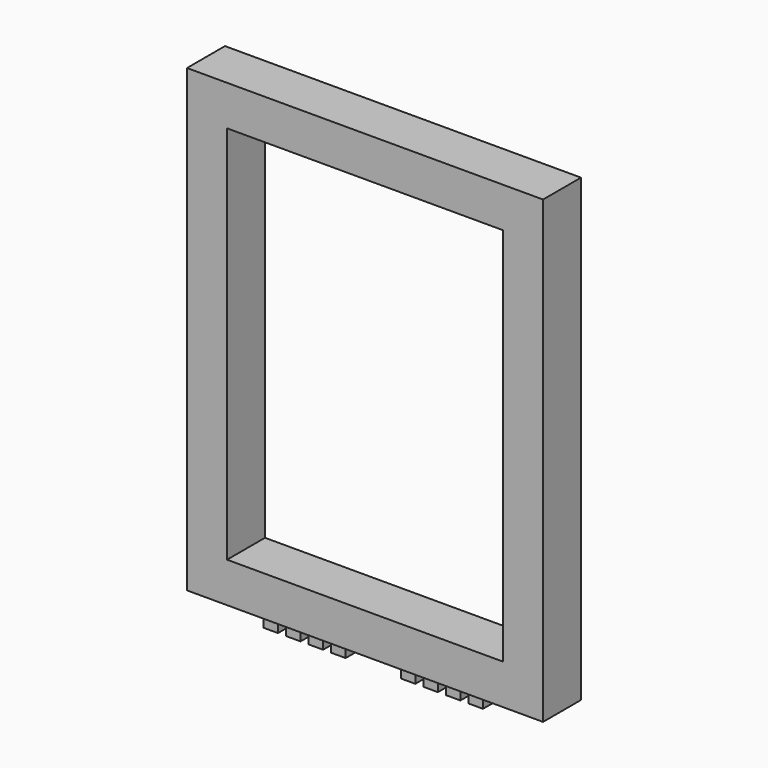
from build123d import *

# Parameters (mm, degrees)
F0_W     = 1200
F0_H     = 1550
F0_W_2   = 930
F0_H_2   = 1280
F1_DEPTH = 80
F2_W     = 49
F2_H     = 91
F3_DEPTH = 50


with BuildPart() as f1:
    # F0 (on Front) → F1 (new body, symmetric)
    with BuildSketch(Plane.XZ):
        with Locations((0, 775)):
            Rectangle(F0_W, F0_H)
        with Locations((0, 775)):
            Rectangle(F0_W_2, F0_H_2, mode=Mode.SUBTRACT)
    extrude(amount=F1_DEPTH, both=True)


with BuildPart() as f3:
    # F2 (on face) → F3 (new body)
    with BuildSketch(Plane(origin=(0, 0, 0), x_dir=(1, 0, 0), z_dir=(0, 0, -1))):
        with Locations((-345.5, 0)):
            Rectangle(F2_W, F2_H)
        with Locations((-269.5, 0)):
            Rectangle(F2_W, F2_H)
        with Locations((-193.5, 0)):
            Rectangle(F2_W, F2_H)
        with Locations((-117.5, 0)):
            Rectangle(F2_W, F2_H)
        with Locations((345.5, 0)):
            Rectangle(F2_W, F2_H)
        with Locations((117.5, 0)):
            Rectangle(F2_W, F2_H)
        with Locations((193.5, 0)):
            Rectangle(F2_W, F2_H)
        with Locations((269.5, 0)):
            Rectangle(F2_W, F2_H)
    extrude(amount=F3_DEPTH)


solid = Compound([f1.part, f3.part])
